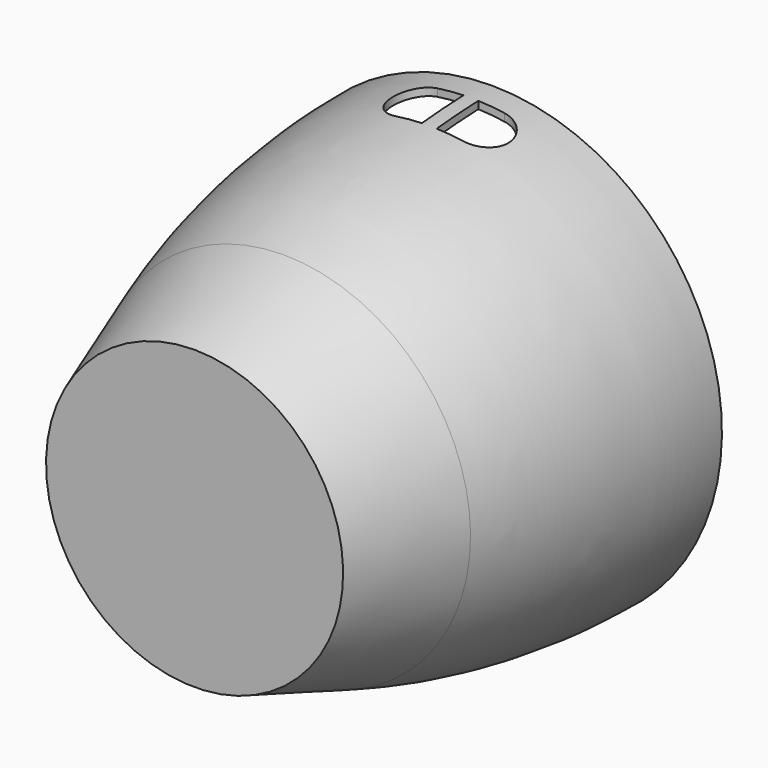
from build123d import *

# Parameters (mm, degrees)
F2_T     = -1
F3_W     = 4.5
F3_H     = 3
F3_R     = 2.5
F4_DEPTH = 100
F6_DEPTH = 100
F8_DEPTH = 100


with BuildPart() as f1:
    # F0 (on Right) → F1 (revolve)
    with BuildSketch(Plane.YZ):
        with BuildLine():
            Line((0, 20), (0, 0))
            Line((0, 0), (50, 0))
            Line((50, 0), (50, 31))
            ThreePointArc((50, 31), (32.257595, 29.528534), (15, 25.154344))
            Line((15, 25.154344), (0, 20))
        make_face()
    revolve(axis=Axis((0, 66.182671, 0), (0, 1, 0)))

    # F2
    f2_openings = [f1.faces().sort_by_distance(p)[0] for p in [
        (0, 50, 0),
    ]]
    offset(amount=F2_T, openings=f2_openings)

    # F3 (on Top) → F4 (cut)
    with BuildSketch(Plane.XY):
        with Locations((-5.75, 15.5)):
            Rectangle(F3_W, F3_H)
        with Locations((5.75, 15.5)):
            Rectangle(F3_W, F3_H)
        with Locations((-7.5, 25.5)):
            Circle(F3_R)
        with Locations((7.5, 25.5)):
            Circle(F3_R)
        with Locations((0, 15.5)):
            Rectangle(F3_W, F3_H)
    extrude(amount=-F4_DEPTH, mode=Mode.SUBTRACT)

    # F5 (on Top) → F6 (cut)
    with BuildSketch(Plane.XY):
        with BuildLine():
            ThreePointArc((-4.5, 46.5), (-8, 43), (-4.5, 39.5))
            Line((-4.5, 39.5), (-1, 39.5))
            Line((-1, 39.5), (-1, 46.5))
            Line((-1, 46.5), (-4.5, 46.5))
        make_face()
        with BuildLine():
            Line((1, 39.5), (4.5, 39.5))
            ThreePointArc((4.5, 39.5), (8, 43), (4.5, 46.5))
            Line((4.5, 46.5), (1, 46.5))
            Line((1, 46.5), (1, 39.5))
        make_face()
    extrude(amount=F6_DEPTH, mode=Mode.SUBTRACT)

    # F7 (on Top) → F8 (cut)
    with BuildSketch(Plane.XY):
        Polygon((-3, 45), (3, 45), (3, 48), (1.845299, 50), (3, 50), (3, 55), (-3, 55), (-3, 50), (-1.845299, 50), (-3, 48), align=None)
    extrude(amount=-F8_DEPTH, mode=Mode.SUBTRACT)


solid = f1.part
